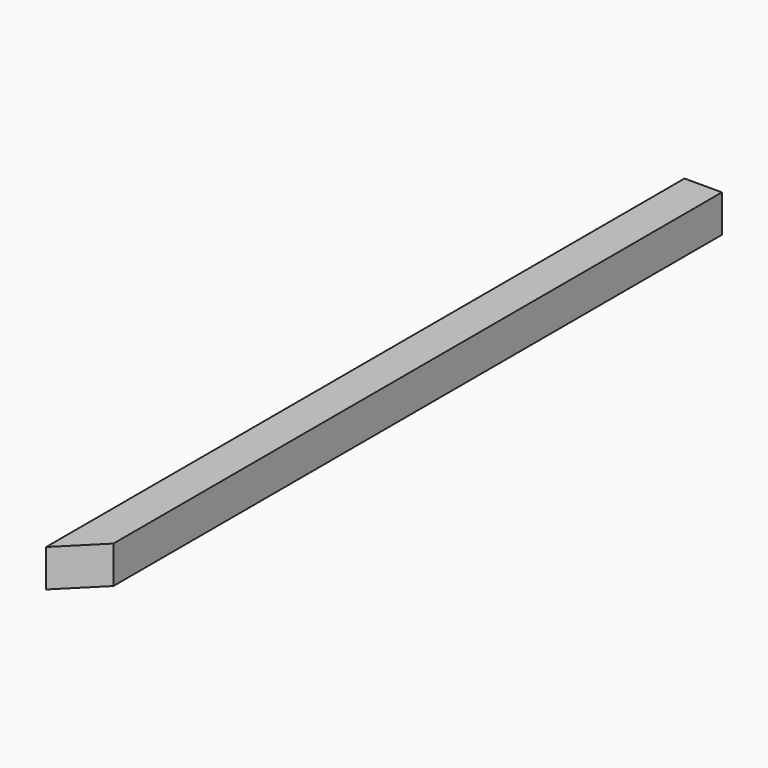
from build123d import *

# Parameters (mm, degrees)
F0_W     = 38.1
F0_H     = 38.1
F1_DEPTH = 863.6
F3_DEPTH = 50.8
F4_DEPTH = 50.8


with BuildPart() as f1:
    # F0 (on Front) → F1 (new body)
    with BuildSketch(Plane.XZ):
        with Locations((-53.838724035, 51.380352813)):
            Rectangle(F0_W, F0_H)
    extrude(amount=F1_DEPTH)

    # F2 (on face) → F3 (cut)
    with BuildSketch(Plane.XY.offset(70.430352813)):
        Polygon((-34.788724035, -825.5), (-72.888724035, -863.6), (-34.788724035, -863.6), align=None)
    extrude(amount=-F3_DEPTH, mode=Mode.SUBTRACT)

    # F4 (cut): a face of the model
    f4_faces = [f1.faces().sort_by_distance(p)[0] for p in [
        (-53.838724035, 0, 51.380352813),
    ]]
    extrude(f4_faces, amount=-F4_DEPTH, mode=Mode.SUBTRACT)


solid = f1.part
